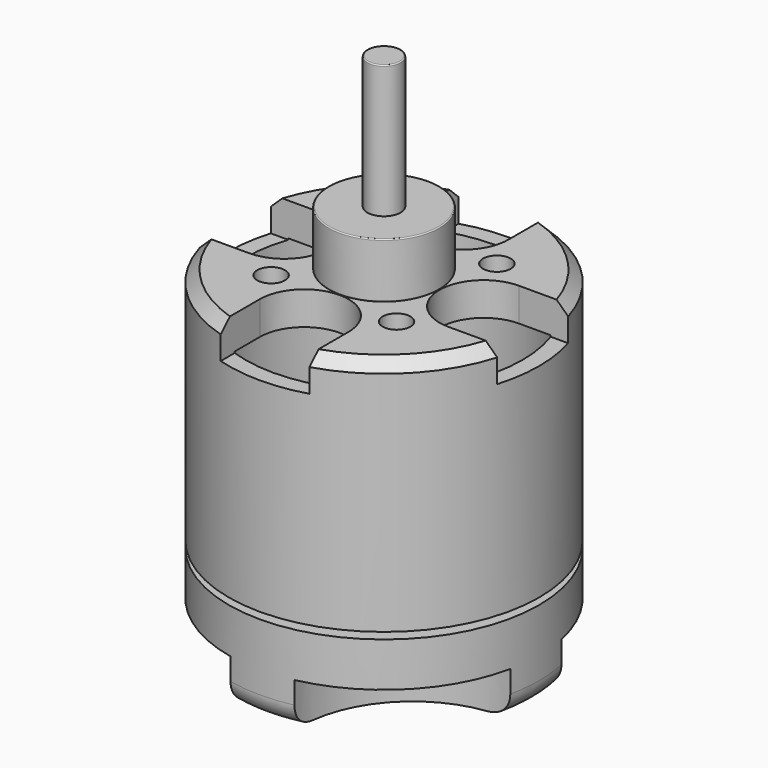
from build123d import *

# Parameters (mm, degrees)
F0_R      = 14
F1_DEPTH  = 21.5
F2_R      = 5
F3_DEPTH  = 5
F4_R      = 12.5
F5_DEPTH  = 18.5
F7_R      = 1.5
F8_DEPTH  = 49
F10_DEPTH = 3.12
F11_SIZE  = 1
F12_R     = 0.1
F13_R     = 0.1
F14_R     = 14
F14_R_2   = 12.5
F15_DEPTH = 8
F17_R     = 12.5
F17_R_2   = 1.25
F18_DEPTH = 4
F21_DEPTH = 4
F22_R     = 2
F23_R     = 5
F23_R_2   = 1.5
F24_DEPTH = 1
F25_R     = 1.25
F26_DEPTH = 3


with BuildPart() as f1:
    # F0 (on Top) → F1 (new body)
    with BuildSketch(Plane.XY):
        Circle(F0_R)
    extrude(amount=F1_DEPTH)

    # F4 (on face) → F5 (cut)
    with BuildSketch(Plane(origin=(0, 0, 0), x_dir=(1, 0, 0), z_dir=(0, 0, -1))):
        Circle(F4_R)
    extrude(amount=-F5_DEPTH, mode=Mode.SUBTRACT)

    # F9 (on face) → F10 (cut)
    with BuildSketch(Plane.XY.offset(21.5)):
        with BuildLine():
            Line((-4, 13.416407865), (-4, 9))
            ThreePointArc((-4, 9), (0, 5), (4, 9))
            Line((4, 9), (4, 13.416407865))
            ThreePointArc((4, 13.416407865), (0, 14), (-4, 13.416407865))
        make_face()
        with BuildLine():
            Line((-13.416407865, -4), (-9, -4))
            ThreePointArc((-9, -4), (-5, 0), (-9, 4))
            Line((-9, 4), (-13.416407865, 4))
            ThreePointArc((-13.416407865, 4), (-14, 0), (-13.416407865, -4))
        make_face()
        with BuildLine():
            Line((4, -13.416407865), (4, -9))
            ThreePointArc((4, -9), (0, -5), (-4, -9))
            Line((-4, -9), (-4, -13.416407865))
            ThreePointArc((-4, -13.416407865), (0, -14), (4, -13.416407865))
        make_face()
        with BuildLine():
            Line((13.416407865, 4), (9, 4))
            ThreePointArc((9, 4), (5, 0), (9, -4))
            Line((9, -4), (13.416407865, -4))
            ThreePointArc((13.416407865, -4), (14, 0), (13.416407865, 4))
        make_face()
    extrude(amount=-F10_DEPTH, mode=Mode.SUBTRACT)

    # F11
    f11_edges = [f1.edges().sort_by_distance(p)[0] for p in [
        (-9.899495, 9.899495, 21.5),
        (9.899495, 9.899495, 21.5),
        (9.899495, -9.899495, 21.5),
        (-9.899495, -9.899495, 21.5),
    ]]
    chamfer(f11_edges, length=F11_SIZE)

    # F25 (on face) → F26 (cut, through all)
    with BuildSketch(Plane.XY.offset(21.5)):
        with Locations((5.6568542495, 5.6568542495)):
            Circle(F25_R)
        with Locations((-5.6568542495, 5.6568542495)):
            Circle(F25_R)
        with Locations((-5.6568542495, -5.6568542495)):
            Circle(F25_R)
        with Locations((5.6568542495, -5.6568542495)):
            Circle(F25_R)
    extrude(amount=-F26_DEPTH, mode=Mode.SUBTRACT)


with BuildPart() as f3:
    # F2 (on face) → F3 (new body)
    with BuildSketch(Plane.XY.offset(21.5)):
        Circle(F2_R)
    extrude(amount=F3_DEPTH)

    # F13
    f13_edges = [f3.edges().sort_by_distance(p)[0] for p in [
        (-5, 0, 26.5),
        (-5, 0, 21.5),
    ]]
    fillet(f13_edges, radius=F13_R)


with BuildPart() as f8:
    # F7 (on offset) → F8 (new body)
    with BuildSketch(Plane.XY.offset(38.5)):
        Circle(F7_R)
    extrude(amount=-F8_DEPTH)

    # F12
    f12_edges = [f8.edges().sort_by_distance(p)[0] for p in [
        (-1.5, 0, 38.5),
    ]]
    fillet(f12_edges, radius=F12_R)


with BuildPart() as f15:
    # F14 (on face) → F15 (new body)
    with BuildSketch(Plane(origin=(0, 0, 0), x_dir=(1, 0, 0), z_dir=(0, 0, -1))):
        Circle(F14_R)
        Circle(F14_R_2, mode=Mode.SUBTRACT)
    extrude(amount=F15_DEPTH)


with BuildPart() as f15_1:
    # F16: moved
    add(f15.part.moved(Location((0, 0, -0.6))))


with BuildPart() as f18:
    # F17 (on face) → F18 (new body)
    with BuildSketch(Plane(origin=(0, 0, -8.6), x_dir=(1, 0, 0), z_dir=(0, 0, -1))):
        Circle(F17_R)
        with Locations((0, -8)):
            Circle(F17_R_2, mode=Mode.SUBTRACT)
        with Locations((-8, 0)):
            Circle(F17_R_2, mode=Mode.SUBTRACT)
        with Locations((8, 0)):
            Circle(F17_R_2, mode=Mode.SUBTRACT)
        with Locations((0, 8)):
            Circle(F17_R_2, mode=Mode.SUBTRACT)
    extrude(amount=-F18_DEPTH)

    # F19: union F15
    add(f15_1.part)

    # F20 (on face) → F21 (cut)
    with BuildSketch(Plane(origin=(0, 0, -8.6), x_dir=(1, 0, 0), z_dir=(0, 0, -1))):
        with BuildLine():
            ThreePointArc((-2.8833831667, 13.6998577188), (-9.8994949366, 9.8994949366), (-13.6998577188, 2.8833831667))
            ThreePointArc((-13.6998577188, 2.8833831667), (-5.7883401841, 5.7883401841), (-2.8833831667, 13.6998577188))
        make_face()
        with BuildLine():
            ThreePointArc((13.6998577188, 2.8833831667), (9.8994949366, 9.8994949366), (2.8833831667, 13.6998577188))
            ThreePointArc((2.8833831667, 13.6998577188), (5.7883401841, 5.7883401841), (13.6998577188, 2.8833831667))
        make_face()
        with BuildLine():
            ThreePointArc((-2.8833831667, -13.6998577188), (-5.7883401841, -5.7883401841), (-13.6998577188, -2.8833831667))
            ThreePointArc((-13.6998577188, -2.8833831667), (-9.8994949366, -9.8994949366), (-2.8833831667, -13.6998577188))
        make_face()
        with BuildLine():
            ThreePointArc((13.6998577188, -2.8833831667), (5.7883401841, -5.7883401841), (2.8833831667, -13.6998577188))
            ThreePointArc((2.8833831667, -13.6998577188), (9.8994949366, -9.8994949366), (13.6998577188, -2.8833831667))
        make_face()
    extrude(amount=-F21_DEPTH, mode=Mode.SUBTRACT)

    # F22
    f22_edges = [f18.edges().sort_by_distance(p)[0] for p in [
        (-14, 0, -8.6),
        (0, -14, -8.6),
        (13.924762, 1.449481, -8.6),
        (0, 14, -8.6),
        (13.924762, -1.449481, -8.6),
    ]]
    fillet(f22_edges, radius=F22_R)

    # F23 (on face) → F24 (cut)
    with BuildSketch(Plane(origin=(0, 0, -8.6), x_dir=(1, 0, 0), z_dir=(0, 0, -1))):
        Circle(F23_R)
        Circle(F23_R_2, mode=Mode.SUBTRACT)
    extrude(amount=-F24_DEPTH, mode=Mode.SUBTRACT)


solid = Compound([f1.part, f3.part, f8.part, f18.part])
